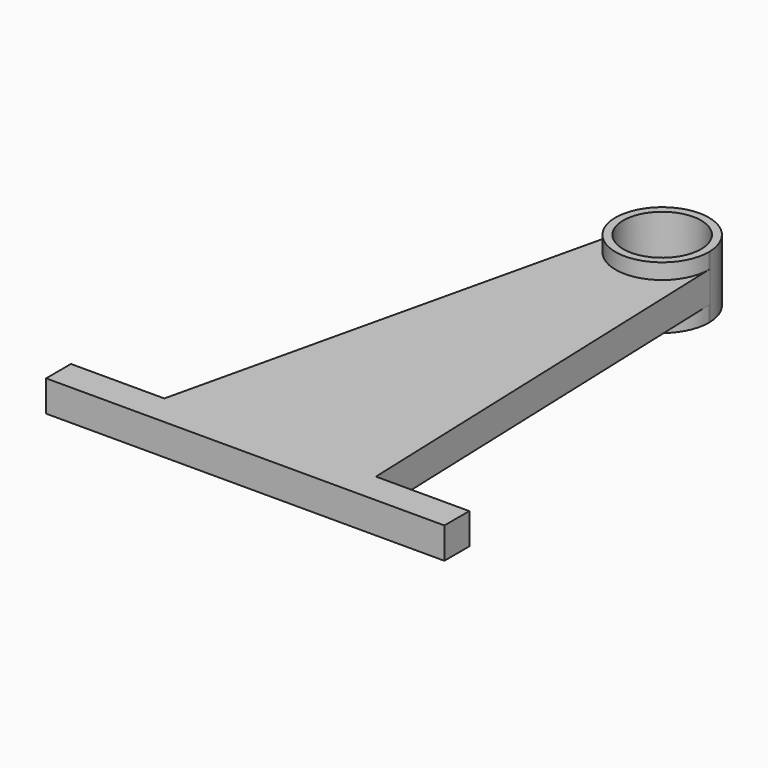
from build123d import *

# Parameters (mm, degrees)
F0_R          = 12.5
F1_DEPTH      = 10
F2_DEPTH      = 15
F2_DEPTH_BACK = 5


with BuildPart() as f1:
    # F0 (on Top) → F1 (new body)
    with BuildSketch(Plane.XY):
        with BuildLine():
            ThreePointArc((14.990479, 0.534354), (14.99762, 0.267219), (15, 0))
            ThreePointArc((15, 0), (-1.712048, -14.901976), (-14.609185, 3.401721))
            Line((-14.609185, 3.401721), (-48, -140))
            Line((-48, -140), (-78, -140))
            Line((-78, -140), (-78, -150))
            Line((-78, -150), (50, -150))
            Line((50, -150), (50, -140))
            Line((50, -140), (20, -140))
            Line((20, -140), (14.990479, 0.534354))
        make_face()
        with BuildLine():
            ThreePointArc((-14.609185, 3.401721), (-1.712048, -14.901976), (15, 0))
            ThreePointArc((15, 0), (14.99762, 0.267219), (14.990479, 0.534354))
            ThreePointArc((14.990479, 0.534354), (1.446304, 14.930111), (-14.609185, 3.401721))
        make_face()
        Circle(F0_R, mode=Mode.SUBTRACT)
    extrude(amount=F1_DEPTH)

    # F0 (on Top) → F2 (join, two sides)
    with BuildSketch(Plane.XY) as f2_sk:
        with BuildLine():
            ThreePointArc((-14.609185, 3.401721), (-1.712048, -14.901976), (15, 0))
            ThreePointArc((15, 0), (14.99762, 0.267219), (14.990479, 0.534354))
            ThreePointArc((14.990479, 0.534354), (1.446304, 14.930111), (-14.609185, 3.401721))
        make_face()
        Circle(F0_R, mode=Mode.SUBTRACT)
    extrude(amount=F2_DEPTH)
    extrude(f2_sk.sketch, amount=-F2_DEPTH_BACK)


solid = f1.part
